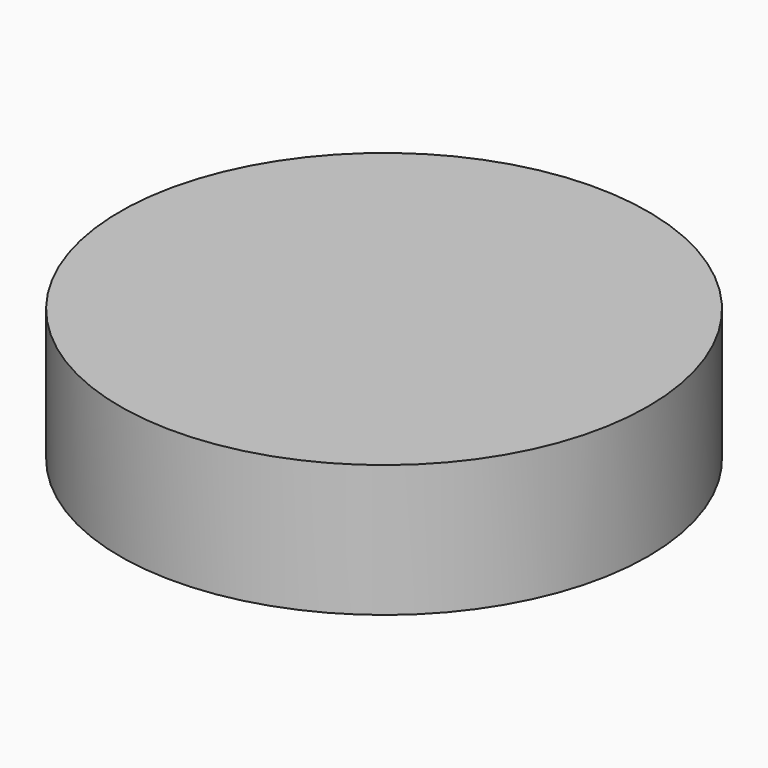
from build123d import *

# Parameters (mm, degrees)
SKETCH_R  = 2
PAD_DEPTH = 1


with BuildPart() as part:
    # Sketch → Pad (new body)
    with BuildSketch(Plane.XY):
        Circle(SKETCH_R)
    extrude(amount=PAD_DEPTH)


solid = part.part
